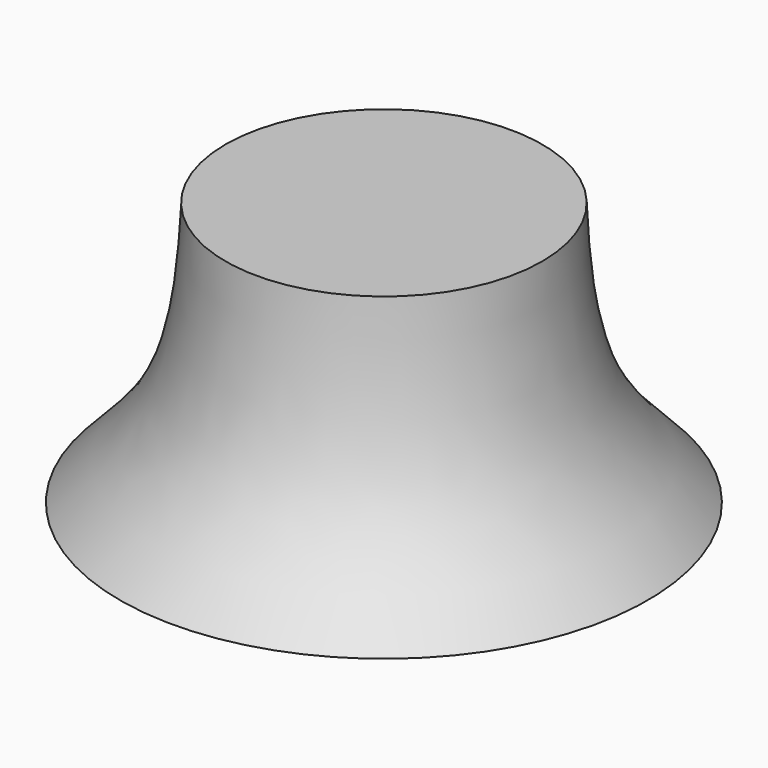
from build123d import *

# Parameters (mm, degrees)
F2_R     = 25
F3_DEPTH = 30


with BuildPart() as f1:
    # F0 (on Front) → F1 (revolve)
    with BuildSketch(Plane.XZ):
        with BuildLine():
            Line((-50, 0), (0, 0))
            Line((0, 0), (0, 50))
            Line((0, 50), (-30, 50))
            add(Edge.make_bspline(
                [(-30, 50), (-30.3615849395, 40.3630577809), (-32.1872435822, 18.9524545198), (-43.0002072078, 7.1189168326), (-50, 0)],
                knots=[0, 0, 0, 0, 0.5168824038, 1, 1, 1, 1], degree=3))
        make_face()
    revolve(axis=Axis((0, 0, 25), (0, 0, 1)))

    # F2 (on Top) → F3 (cut)
    with BuildSketch(Plane.XY):
        Circle(F2_R)
    extrude(amount=F3_DEPTH, mode=Mode.SUBTRACT)


solid = f1.part
